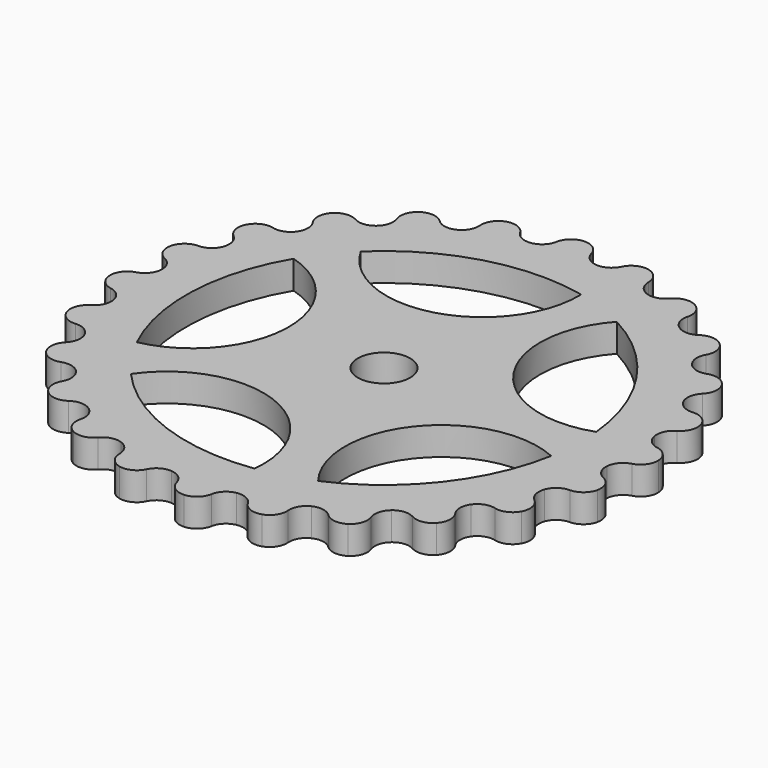
from build123d import *

# Parameters (mm, degrees)
F1_DEPTH = 5
F2_R     = 4.651512
F3_DEPTH = 25
F5_DEPTH = 25


with BuildPart() as f1:
    # F0 (on Top) → F1 (new body)
    with BuildSketch(Plane.XY):
        with BuildLine():
            ThreePointArc((3.668377, 42.514763), (1.971604, 43.213515), (0.979829, 44.757431))
            ThreePointArc((0.979829, 44.757431), (-0.169752, 46.424421), (-2.108703, 47.008254))
            ThreePointArc((-2.108703, 47.008254), (-3.987593, 46.25316), (-4.983301, 44.489936))
            ThreePointArc((-4.983301, 44.489936), (-5.832856, 42.863421), (-7.46025, 42.015553))
            ThreePointArc((-7.46025, 42.015553), (-9.280058, 42.251338), (-10.637633, 43.485956))
            ThreePointArc((-10.637633, 43.485956), (-12.179492, 44.798612), (-14.203482, 44.860714))
            ThreePointArc((-14.203482, 44.860714), (-15.822917, 43.645057), (-16.328341, 41.684205))
            ThreePointArc((-16.328341, 41.684205), (-16.727976, 39.893231), (-18.080474, 38.653053))
            ThreePointArc((-18.080474, 38.653053), (-19.899298, 38.409803), (-21.530158, 39.250986))
            ThreePointArc((-21.530158, 39.250986), (-23.35922, 40.119852), (-25.330318, 39.655991))
            ThreePointArc((-25.330318, 39.655991), (-26.579936, 38.062615), (-26.560633, 36.037764))
            ThreePointArc((-26.560633, 36.037764), (-26.483112, 34.204384), (-27.468543, 32.656411))
            ThreePointArc((-27.468543, 32.656411), (-29.162435, 31.950703), (-30.955439, 32.341126))
            ThreePointArc((-30.955439, 32.341126), (-32.947056, 32.70699), (-34.730934, 31.748777))
            ThreePointArc((-34.730934, 31.748777), (-35.525577, 29.886269), (-34.982861, 27.935409))
            ThreePointArc((-34.982861, 27.935409), (-34.433467, 26.184564), (-34.984676, 24.434289))
            ThreePointArc((-34.984676, 24.434289), (-36.4382, 23.314216), (-38.271157, 23.227272))
            ThreePointArc((-38.271157, 23.227272), (-40.289604, 23.065201), (-41.764694, 21.677937))
            ThreePointArc((-41.764694, 21.677937), (-42.050208, 19.673223), (-41.021065, 17.929303))
            ThreePointArc((-41.021065, 17.929303), (-40.037239, 16.380309), (-40.116662, 14.54701))
            ThreePointArc((-40.116662, 14.54701), (-41.230761, 13.088903), (-42.97876, 12.530518))
            ThreePointArc((-42.97876, 12.530518), (-44.886482, 11.851557), (-45.952259, 10.129781))
            ThreePointArc((-45.952259, 10.129781), (-45.709186, 8.11948), (-44.263751, 6.701344))
            ThreePointArc((-44.263751, 6.701344), (-42.912539, 5.459764), (-42.514763, 3.668377))
            ThreePointArc((-42.514763, 3.668377), (-43.213515, 1.971604), (-44.757431, 0.979829))
            ThreePointArc((-44.757431, 0.979829), (-46.424421, -0.169752), (-47.008254, -2.108703))
            ThreePointArc((-47.008254, -2.108703), (-46.25316, -3.987593), (-44.489936, -4.983301))
            ThreePointArc((-44.489936, -4.983301), (-42.863421, -5.832856), (-42.015553, -7.46025))
            ThreePointArc((-42.015553, -7.46025), (-42.251338, -9.280058), (-43.485956, -10.637633))
            ThreePointArc((-43.485956, -10.637633), (-44.798612, -12.179492), (-44.860714, -14.203482))
            ThreePointArc((-44.860714, -14.203482), (-43.645057, -15.822917), (-41.684205, -16.328341))
            ThreePointArc((-41.684205, -16.328341), (-39.893231, -16.727976), (-38.653053, -18.080474))
            ThreePointArc((-38.653053, -18.080474), (-38.409803, -19.899298), (-39.250986, -21.530158))
            ThreePointArc((-39.250986, -21.530158), (-40.119852, -23.35922), (-39.655991, -25.330318))
            ThreePointArc((-39.655991, -25.330318), (-38.062615, -26.579936), (-36.037764, -26.560633))
            ThreePointArc((-36.037764, -26.560633), (-34.204384, -26.483112), (-32.656411, -27.468543))
            ThreePointArc((-32.656411, -27.468543), (-31.950703, -29.162435), (-32.341126, -30.955439))
            ThreePointArc((-32.341126, -30.955439), (-32.70699, -32.947056), (-31.748777, -34.730934))
            ThreePointArc((-31.748777, -34.730934), (-29.886269, -35.525577), (-27.935409, -34.982861))
            ThreePointArc((-27.935409, -34.982861), (-26.184564, -34.433467), (-24.434289, -34.984676))
            ThreePointArc((-24.434289, -34.984676), (-23.314216, -36.4382), (-23.227272, -38.271157))
            ThreePointArc((-23.227272, -38.271157), (-23.065201, -40.289604), (-21.677937, -41.764694))
            ThreePointArc((-21.677937, -41.764694), (-19.673223, -42.050208), (-17.929303, -41.021065))
            ThreePointArc((-17.929303, -41.021065), (-16.380309, -40.037239), (-14.54701, -40.116662))
            ThreePointArc((-14.54701, -40.116662), (-13.088903, -41.230761), (-12.530518, -42.97876))
            ThreePointArc((-12.530518, -42.97876), (-11.851557, -44.886482), (-10.129781, -45.952259))
            ThreePointArc((-10.129781, -45.952259), (-8.11948, -45.709186), (-6.701344, -44.263751))
            ThreePointArc((-6.701344, -44.263751), (-5.459764, -42.912539), (-3.668377, -42.514763))
            ThreePointArc((-3.668377, -42.514763), (-1.971604, -43.213515), (-0.979829, -44.757431))
            ThreePointArc((-0.979829, -44.757431), (0.169752, -46.424421), (2.108703, -47.008254))
            ThreePointArc((2.108703, -47.008254), (3.987593, -46.25316), (4.983301, -44.489936))
            ThreePointArc((4.983301, -44.489936), (5.832856, -42.863421), (7.46025, -42.015553))
            ThreePointArc((7.46025, -42.015553), (9.280058, -42.251338), (10.637633, -43.485956))
            ThreePointArc((10.637633, -43.485956), (12.179492, -44.798612), (14.203482, -44.860714))
            ThreePointArc((14.203482, -44.860714), (15.822917, -43.645057), (16.328341, -41.684205))
            ThreePointArc((16.328341, -41.684205), (16.727976, -39.893231), (18.080474, -38.653053))
            ThreePointArc((18.080474, -38.653053), (19.899298, -38.409803), (21.530158, -39.250986))
            ThreePointArc((21.530158, -39.250986), (23.35922, -40.119852), (25.330318, -39.655991))
            ThreePointArc((25.330318, -39.655991), (26.579936, -38.062615), (26.560633, -36.037764))
            ThreePointArc((26.560633, -36.037764), (26.483112, -34.204384), (27.468543, -32.656411))
            ThreePointArc((27.468543, -32.656411), (29.162435, -31.950703), (30.955439, -32.341126))
            ThreePointArc((30.955439, -32.341126), (32.947056, -32.70699), (34.730934, -31.748777))
            ThreePointArc((34.730934, -31.748777), (35.525577, -29.886269), (34.982861, -27.935409))
            ThreePointArc((34.982861, -27.935409), (34.433467, -26.184564), (34.984676, -24.434289))
            ThreePointArc((34.984676, -24.434289), (36.4382, -23.314216), (38.271157, -23.227272))
            ThreePointArc((38.271157, -23.227272), (40.289604, -23.065201), (41.764694, -21.677937))
            ThreePointArc((41.764694, -21.677937), (42.050208, -19.673223), (41.021065, -17.929303))
            ThreePointArc((41.021065, -17.929303), (40.037239, -16.380309), (40.116662, -14.54701))
            ThreePointArc((40.116662, -14.54701), (41.230761, -13.088903), (42.97876, -12.530518))
            ThreePointArc((42.97876, -12.530518), (44.886482, -11.851557), (45.952259, -10.129781))
            ThreePointArc((45.952259, -10.129781), (45.709186, -8.11948), (44.263751, -6.701344))
            ThreePointArc((44.263751, -6.701344), (42.912539, -5.459764), (42.514763, -3.668377))
            ThreePointArc((42.514763, -3.668377), (43.213515, -1.971604), (44.757431, -0.979829))
            ThreePointArc((44.757431, -0.979829), (46.424421, 0.169752), (47.008254, 2.108703))
            ThreePointArc((47.008254, 2.108703), (46.25316, 3.987593), (44.489936, 4.983301))
            ThreePointArc((44.489936, 4.983301), (42.863421, 5.832856), (42.015553, 7.46025))
            ThreePointArc((42.015553, 7.46025), (42.251338, 9.280058), (43.485956, 10.637633))
            ThreePointArc((43.485956, 10.637633), (44.798612, 12.179492), (44.860714, 14.203482))
            ThreePointArc((44.860714, 14.203482), (43.645057, 15.822917), (41.684205, 16.328341))
            ThreePointArc((41.684205, 16.328341), (39.893231, 16.727976), (38.653053, 18.080474))
            ThreePointArc((38.653053, 18.080474), (38.409803, 19.899298), (39.250986, 21.530158))
            ThreePointArc((39.250986, 21.530158), (40.119852, 23.35922), (39.655991, 25.330318))
            ThreePointArc((39.655991, 25.330318), (38.062615, 26.579936), (36.037764, 26.560633))
            ThreePointArc((36.037764, 26.560633), (34.204384, 26.483112), (32.656411, 27.468543))
            ThreePointArc((32.656411, 27.468543), (31.950703, 29.162435), (32.341126, 30.955439))
            ThreePointArc((32.341126, 30.955439), (32.70699, 32.947056), (31.748777, 34.730934))
            ThreePointArc((31.748777, 34.730934), (29.886269, 35.525577), (27.935409, 34.982861))
            ThreePointArc((27.935409, 34.982861), (26.184564, 34.433467), (24.434289, 34.984676))
            ThreePointArc((24.434289, 34.984676), (23.314216, 36.4382), (23.227272, 38.271157))
            ThreePointArc((23.227272, 38.271157), (23.065201, 40.289604), (21.677937, 41.764694))
            ThreePointArc((21.677937, 41.764694), (19.673223, 42.050208), (17.929303, 41.021065))
            ThreePointArc((17.929303, 41.021065), (16.380309, 40.037239), (14.54701, 40.116662))
            ThreePointArc((14.54701, 40.116662), (13.088903, 41.230761), (12.530518, 42.97876))
            ThreePointArc((12.530518, 42.97876), (11.851557, 44.886482), (10.129781, 45.952259))
            ThreePointArc((10.129781, 45.952259), (8.11948, 45.709186), (6.701344, 44.263751))
            ThreePointArc((6.701344, 44.263751), (5.459764, 42.912539), (3.668377, 42.514763))
        make_face()
    extrude(amount=F1_DEPTH)

    # F2 (on Top) → F3 (cut)
    with BuildSketch(Plane.XY):
        Circle(F2_R)
    extrude(amount=F3_DEPTH, mode=Mode.SUBTRACT)

    # F4 (on face) → F5 (cut)
    with BuildSketch(Plane.XY.offset(5)):
        with BuildLine():
            ThreePointArc((34.558809, -6.136141), (14.144272, -11.149425), (14.037055, -32.170244))
            ThreePointArc((14.037055, -32.170244), (27.565071, -21.728561), (34.558809, -6.136141))
        make_face()
        with BuildLine():
            ThreePointArc((-26.258032, -23.291184), (-12.147014, -32.930435), (4.843443, -34.763552))
            ThreePointArc((4.843443, -34.763552), (-6.232913, -16.897364), (-26.258032, -23.291184))
        make_face()
        with BuildLine():
            ThreePointArc((-30.265411, 17.7755), (-35.072338, 1.376433), (-31.565397, -15.348916))
            ThreePointArc((-31.565397, -15.348916), (-17.996424, 0.70628), (-30.265411, 17.7755))
        make_face()
        with BuildLine():
            ThreePointArc((7.552979, 34.277048), (-9.528883, 33.781117), (-24.351931, 25.2774))
            ThreePointArc((-24.351931, 25.2774), (-4.889489, 17.333869), (7.552979, 34.277048))
        make_face()
        with BuildLine():
            ThreePointArc((34.933408, 3.40888), (29.183165, 19.501445), (16.515076, 30.971209))
            ThreePointArc((16.515076, 30.971209), (14.974554, 10.006641), (34.933408, 3.40888))
        make_face()
    extrude(amount=-F5_DEPTH, mode=Mode.SUBTRACT)


solid = f1.part
